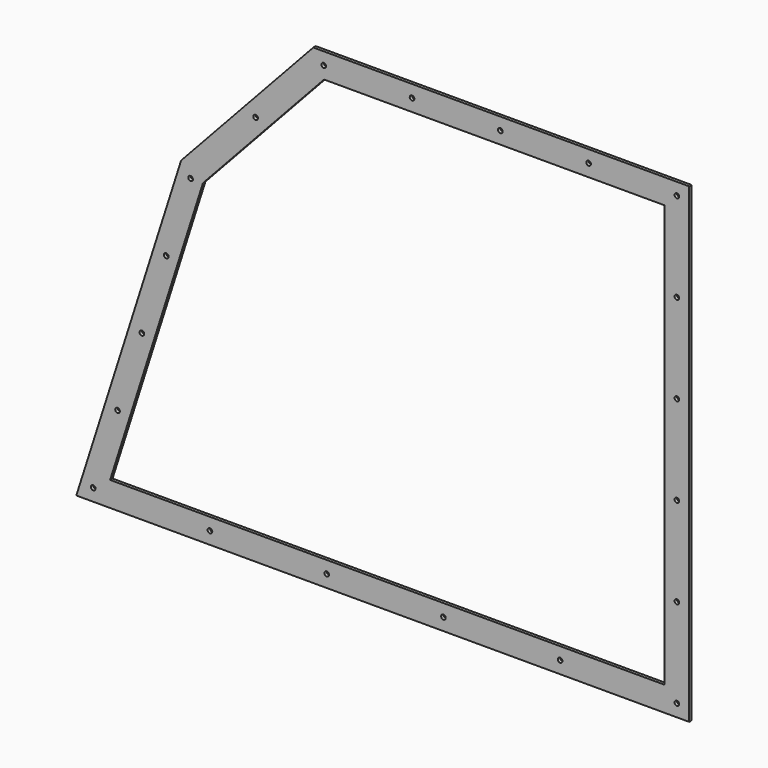
from build123d import *

# Parameters (mm, degrees)
F1_DEPTH      = 1.5875
F1_DEPTH_BACK = 1.5875
F2_R          = 2.38125
F3_DEPTH      = 3.175


with BuildPart() as f1:
    # F0 (on Front) → F1 (new body, two sides)
    with BuildSketch(Plane.XZ) as f1_sk:
        Polygon((-522.685534, 338.445894), (-630.467122, 0), (0, 0), (0, 484.9876), (-386.6896, 484.9876), align=None)
        Polygon((-595.721332, 25.4), (-500.205842, 325.329018), (-375.609085, 459.5876), (-25.4, 459.5876), (-25.4, 25.4), align=None, mode=Mode.SUBTRACT)
    extrude(amount=F1_DEPTH)
    extrude(f1_sk.sketch, amount=-F1_DEPTH_BACK)

    # F2 (on face) → F3 (cut, through all)
    with BuildSketch(Plane.XZ.offset(1.5875)):
        with Locations((-12.7, 12.7)):
            Circle(F2_R)
        with Locations((-12.7, 472.2876)):
            Circle(F2_R)
        with Locations((-375.92, 472.2876)):
            Circle(F2_R)
        with Locations((-512.905842, 325.329018)):
            Circle(F2_R)
        with Locations((-613.094227, 12.7)):
            Circle(F2_R)
        with Locations((-493.013187, 12.7)):
            Circle(F2_R)
        with Locations((-372.932147, 12.7)):
            Circle(F2_R)
        with Locations((-252.851107, 12.7)):
            Circle(F2_R)
        with Locations((-132.770067, 12.7)):
            Circle(F2_R)
        with Locations((-537.951895, 247.175018)):
            Circle(F2_R)
        with Locations((-562.999339, 169.016678)):
            Circle(F2_R)
        with Locations((-588.046783, 90.858339)):
            Circle(F2_R)
        with Locations((-446.024412, 402.381809)):
            Circle(F2_R)
        with Locations((-285.114999, 472.2876)):
            Circle(F2_R)
        with Locations((-194.309998, 472.2876)):
            Circle(F2_R)
        with Locations((-103.504996, 472.2876)):
            Circle(F2_R)
        with Locations((-12.7, 380.370082)):
            Circle(F2_R)
        with Locations((-12.7, 288.452564)):
            Circle(F2_R)
        with Locations((-12.7, 196.535046)):
            Circle(F2_R)
        with Locations((-12.7, 104.617528)):
            Circle(F2_R)
    extrude(amount=-F3_DEPTH, mode=Mode.SUBTRACT)


solid = f1.part
